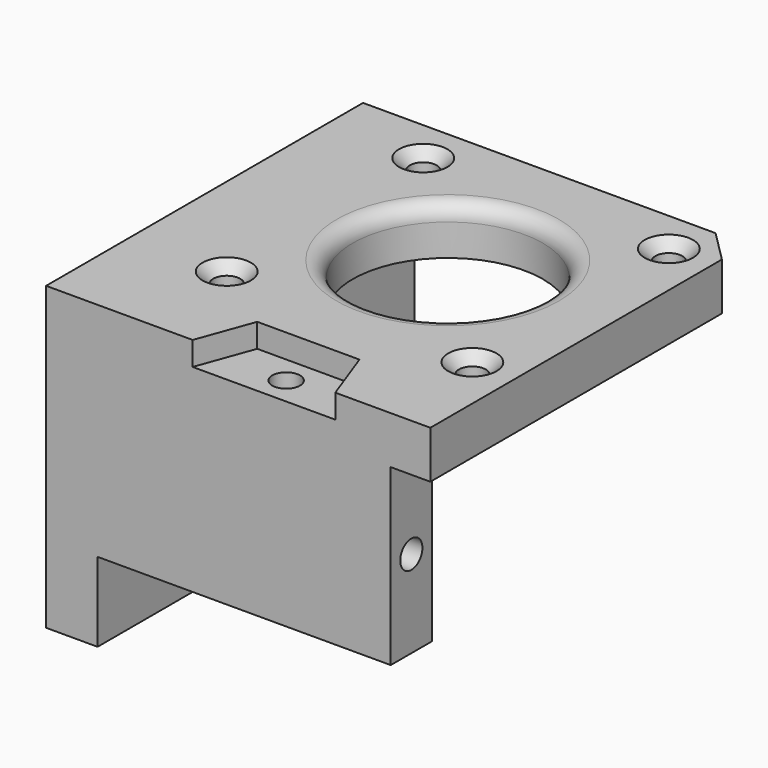
from build123d import *

# Parameters (mm, degrees)
SKETCH028_W         = 6.5
SKETCH028_H         = 50
PAD010_DEPTH        = 6
PAD010_DEPTH_BACK   = 32
HOLE011_D           = 4.5
HOLE011_DEPTH       = 25
HOLE011_CSINK_D     = 6.1
HOLE011_CSINK_ANGLE = 90
SKETCH_W            = 37
SKETCH_H            = 6.5
PAD_DEPTH           = 22
SKETCH041_R         = 1.75
POCKET_DEPTH        = 4
SKETCH042_R         = 1.75
POCKET014_DEPTH     = 3
BINDER016_W         = 50
BINDER016_H         = 42
PAD009_DEPTH        = 6
HOLE007_D           = 3.4
HOLE007_CSINK_D     = 6.1
HOLE007_CSINK_ANGLE = 90
SKETCH030_R         = 12
POCKET008_DEPTH     = 6.001
FILLET003_R         = 2
POCKET012_DEPTH     = 3
SKETCH040_R         = 1.75
POCKET013_DEPTH     = 3.001
CHAMFER_SIZE        = 4


with BuildPart() as obj1:
    # Sketch028 (on Face1 of Binder017) → Pad010 (new body, two sides)
    with BuildSketch(Plane.XY) as pad010_sk:
        with Locations((-24.25, 0)):
            Rectangle(SKETCH028_W, SKETCH028_H)
    extrude(amount=PAD010_DEPTH)
    extrude(pad010_sk.sketch, amount=-PAD010_DEPTH_BACK)

    # Hole011
    with Locations(Plane(origin=(-21, 25, -2), x_dir=(0, 1, 0), z_dir=(1, 0, 0))):
        with Locations((-32.5, -12.5), (-8, -25.81125)):
            CounterSinkHole(HOLE011_D / 2, HOLE011_CSINK_D / 2, depth=HOLE011_DEPTH, counter_sink_angle=HOLE011_CSINK_ANGLE)


with BuildPart() as obj2:
    # Sketch (on Face1 of Binder) → Pad (new body)
    with BuildSketch(Plane.XY):
        with Locations((-2.5, -21.75)):
            Rectangle(SKETCH_W, SKETCH_H)
    extrude(amount=-PAD_DEPTH)

    # Sketch041 (on Face6 of Pad) → Pocket (cut)
    with BuildSketch(Plane(origin=(0, 0, -22), x_dir=(1, 0, 0), z_dir=(0, 0, -1))):
        with Locations((-16, 21.75)):
            Circle(SKETCH041_R)
        with Locations((11, 21.75)):
            Circle(SKETCH041_R)
    extrude(amount=-POCKET_DEPTH, mode=Mode.SUBTRACT)

    # Sketch042 (on Face6 of Pocket) → Pocket014 (cut)
    with BuildSketch(Plane.YZ.offset(16)):
        with Locations((-21.75, -11)):
            Circle(SKETCH042_R)
    extrude(amount=-POCKET014_DEPTH, mode=Mode.SUBTRACT)


with BuildPart() as obj3:
    # Binder016 → Pad009 (new body)
    with BuildSketch(Plane(origin=(0, 0, 0), x_dir=(0, 1, 0), z_dir=(0, 0, 1))):
        Rectangle(BINDER016_W, BINDER016_H)
    extrude(amount=PAD009_DEPTH)

    # Hole007 (through all)
    with Locations(Plane.XY.offset(6)):
        with Locations((-15.5, 19.5), (-15.5, -11.5), (15.5, -11.5), (15.5, 19.5)):
            CounterSinkHole(HOLE007_D / 2, HOLE007_CSINK_D / 2, counter_sink_angle=HOLE007_CSINK_ANGLE)

    # Sketch030 (on Face5 of Hole007) → Pocket008 (cut, through all)
    with BuildSketch(Plane.XY.offset(6)):
        with Locations((0, 4)):
            Circle(SKETCH030_R)
    extrude(amount=-POCKET008_DEPTH, mode=Mode.SUBTRACT)

    # Fillet003
    fillet003_edges = [obj3.edges().sort_by_distance(p)[0] for p in [
        (-12, 4, 6),
    ]]
    fillet(fillet003_edges, radius=FILLET003_R)

    # Sketch031 (on Face1 of Fillet003) → Pocket012 (cut)
    with BuildSketch(Plane.XY.offset(6)):
        Polygon((-9, -25), (-6.452208, -18), (6.452208, -18), (9, -25), align=None)
    extrude(amount=-POCKET012_DEPTH, mode=Mode.SUBTRACT)

    # Sketch040 (on Face15 of Pocket012) → Pocket013 (cut, through all)
    with BuildSketch(Plane.XY.offset(3)):
        with Locations((0, -21.5)):
            Circle(SKETCH040_R)
    extrude(amount=-POCKET013_DEPTH, mode=Mode.SUBTRACT)

    # Chamfer
    chamfer_edges = [obj3.edges().sort_by_distance(p)[0] for p in [
        (21, 25, 3),
    ]]
    chamfer(chamfer_edges, length=CHAMFER_SIZE)

    # Fusion: union obj1, obj2
    add(obj1.part)
    add(obj2.part)


solid = obj3.part
